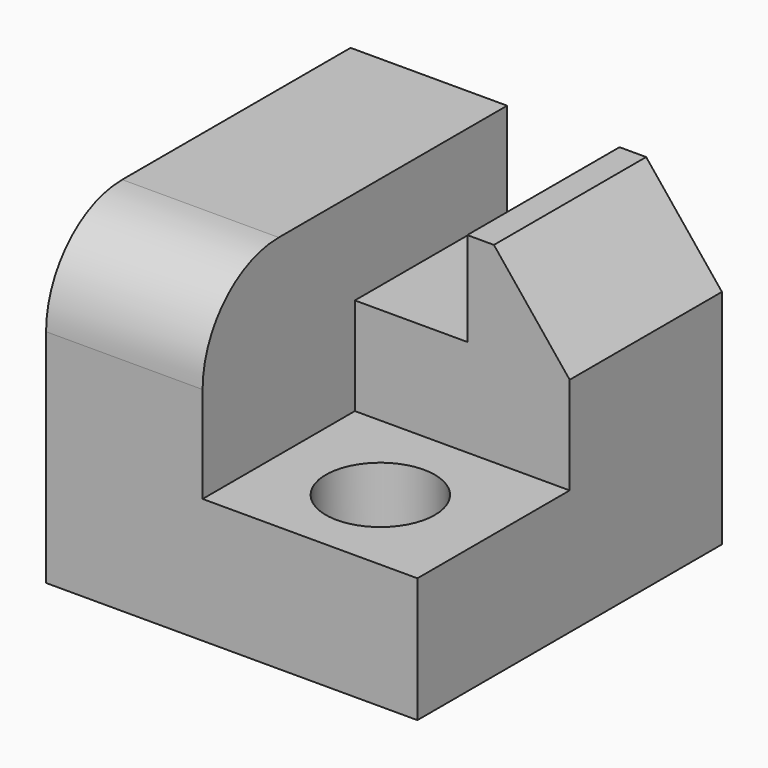
from build123d import *

# Parameters (mm, degrees)
F1_DEPTH = 50.8
F3_DEPTH = 50.8
F4_R     = 25.4
F5_R     = 14.543371
F6_DEPTH = 33.3385


with BuildPart() as f1:
    # F0 (on Front) → F1 (new body, symmetric)
    with BuildSketch(Plane.XZ):
        Polygon((-48.4505, 51.117502), (-48.4505, -33.3375), (50.673001, -33.3375), (50.673001, 26.003249), (30.448252, 51.117502), (23.336248, 51.117502), (23.336248, 26.003249), (-6.6675, 26.003249), (-6.6675, 51.117502), align=None)
    extrude(amount=F1_DEPTH, both=True)

    # F2 (on face) → F3 (cut)
    with BuildSketch(Plane.XZ.offset(50.8)):
        Polygon((23.336248, 26.003249), (-6.6675, 26.003249), (-6.6675, 0), (50.673001, 0), (50.673001, 26.003249), (30.448252, 51.117502), (23.336248, 51.117502), align=None)
    extrude(amount=-F3_DEPTH, mode=Mode.SUBTRACT)

    # F4
    f4_edges = [f1.edges().sort_by_distance(p)[0] for p in [
        (-27.559, -50.8, 51.117502),
    ]]
    fillet(f4_edges, radius=F4_R)

    # F5 (on Top) → F6 (cut, through all)
    with BuildSketch(Plane.XY):
        with Locations((21.113751, -26.2255)):
            Circle(F5_R)
    extrude(amount=-F6_DEPTH, mode=Mode.SUBTRACT)


solid = f1.part
